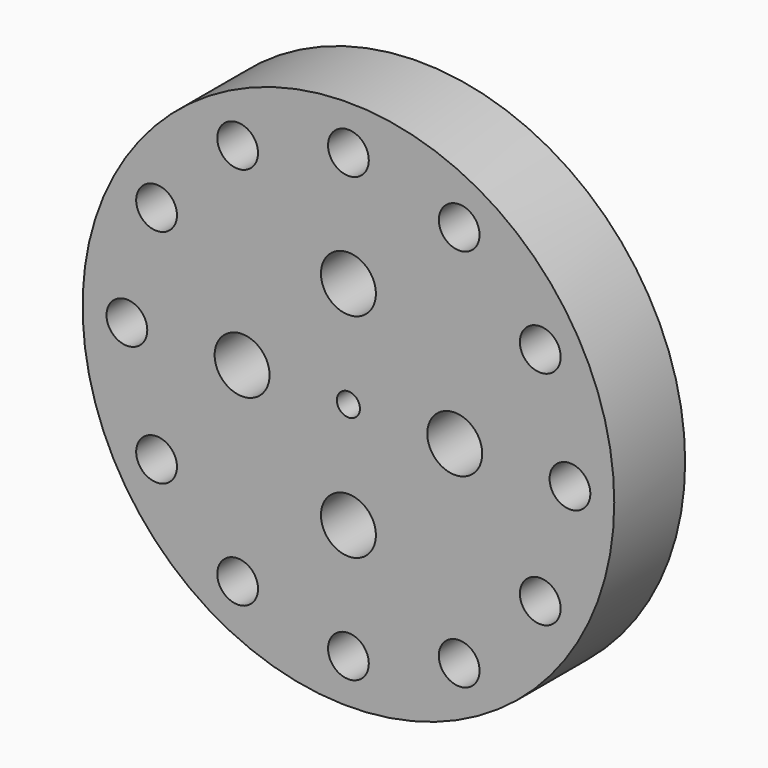
from build123d import *

# Parameters (mm, degrees)
F1_R     = 38.1
F1_R_2   = 2.921
F1_R_3   = 1.651
F2_DEPTH = 12.7
F3_R     = 3.937
F4_DEPTH = 25.4


with BuildPart() as f2:
    # F1 (on face) → F2 (new body)
    with BuildSketch(Plane.XZ):
        Circle(F1_R)
        with Locations((-15.875, -27.496307)):
            Circle(F1_R_2, mode=Mode.SUBTRACT)
        with Locations((-27.496307, -15.875)):
            Circle(F1_R_2, mode=Mode.SUBTRACT)
        with Locations((0, -31.75)):
            Circle(F1_R_2, mode=Mode.SUBTRACT)
        with Locations((15.875, -27.496307)):
            Circle(F1_R_2, mode=Mode.SUBTRACT)
        with Locations((27.496307, -15.875)):
            Circle(F1_R_2, mode=Mode.SUBTRACT)
        with Locations((-31.75, 0)):
            Circle(F1_R_2, mode=Mode.SUBTRACT)
        with Locations((-27.496307, 15.875)):
            Circle(F1_R_2, mode=Mode.SUBTRACT)
        with Locations((-15.875, 27.496307)):
            Circle(F1_R_2, mode=Mode.SUBTRACT)
        Circle(F1_R_3, mode=Mode.SUBTRACT)
        with Locations((31.75, 0)):
            Circle(F1_R_2, mode=Mode.SUBTRACT)
        with Locations((27.496307, 15.875)):
            Circle(F1_R_2, mode=Mode.SUBTRACT)
        with Locations((15.875, 27.496307)):
            Circle(F1_R_2, mode=Mode.SUBTRACT)
        with Locations((0, 31.75)):
            Circle(F1_R_2, mode=Mode.SUBTRACT)
    extrude(amount=F2_DEPTH)

    # F3 (on face) → F4 (cut)
    with BuildSketch(Plane.XZ.offset(12.7)):
        with Locations((0, 15.24)):
            Circle(F3_R)
        with Locations((15.24, 0)):
            Circle(F3_R)
        with Locations((-15.24, 0)):
            Circle(F3_R)
        with Locations((0, -15.24)):
            Circle(F3_R)
    extrude(amount=-F4_DEPTH, mode=Mode.SUBTRACT)


solid = f2.part
